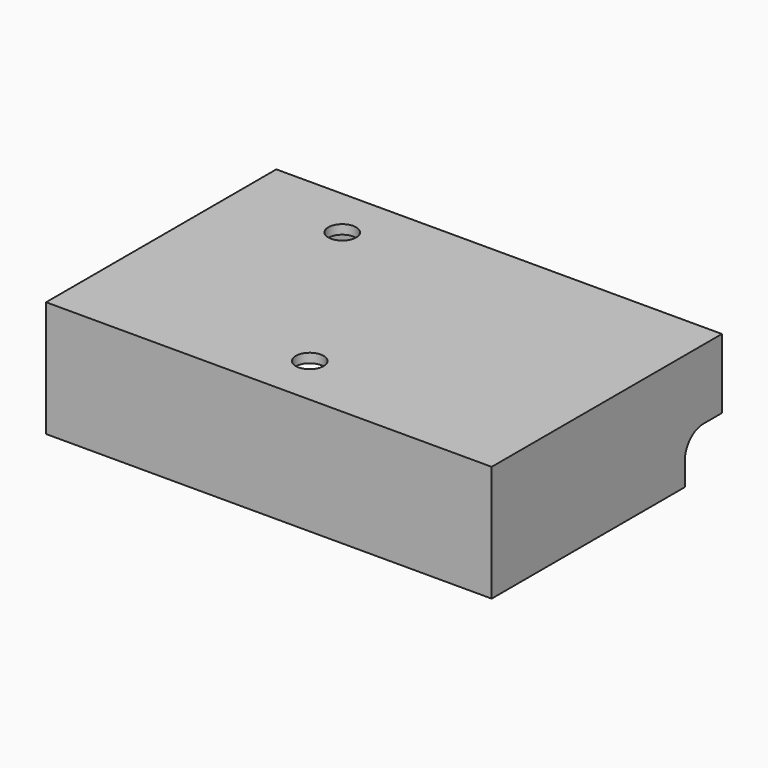
from build123d import *

# Parameters (mm, degrees)
SKETCH004_W          = 96
SKETCH004_H          = 62
PAD002_DEPTH         = 25
SKETCH005_W          = 90.1
SKETCH005_H          = 56.2
POCKET002_DEPTH      = 23
SKETCH006_W          = 7
SKETCH006_H          = 10
PAD003_DEPTH         = 14.5
SKETCH007_R          = 2.3
POCKET003_DEPTH      = 30.001
POCKET003_DEPTH_BACK = 0.001
SKETCH008_W          = 10
SKETCH008_H          = 10
POCKET004_DEPTH      = 10
FILLET001_R          = 5
POCKET005_DEPTH      = 8
FILLET_R             = 4
SKETCH010_R          = 3
POCKET006_DEPTH      = 5


with BuildPart() as part:
    # Sketch004 (on XY_Plane003 of Origin006) → Pad002 (new body)
    with BuildSketch(Plane.XY):
        Rectangle(SKETCH004_W, SKETCH004_H)
    extrude(amount=PAD002_DEPTH)

    # Sketch005 (on Face5 of Pad002) → Pocket002 (cut)
    with BuildSketch(Plane(origin=(0, 0, 0), x_dir=(1, 0, 0), z_dir=(0, 0, -1))):
        Rectangle(SKETCH005_W, SKETCH005_H)
    extrude(amount=-POCKET002_DEPTH, mode=Mode.SUBTRACT)

    # Sketch006 (on Face2 of Pocket002) → Pad003 (join)
    with BuildSketch(Plane(origin=(0, 31, 0), x_dir=(-1, 0, 0), z_dir=(0, 1, 0))):
        with Locations((-27.5, 0)):
            Rectangle(SKETCH006_W, SKETCH006_H)
        with Locations((27.5, 0)):
            Rectangle(SKETCH006_W, SKETCH006_H)
    extrude(amount=PAD003_DEPTH)

    # Sketch007 (on Face21 of Pad003) → Pocket003 (cut, two sides)
    with BuildSketch(Plane(origin=(0, 0, -5), x_dir=(1, 0, 0), z_dir=(0, 0, -1))) as pocket003_sk:
        with Locations((-27.5, -38.2)):
            Circle(SKETCH007_R)
        with Locations((27.5, -38.2)):
            Circle(SKETCH007_R)
    extrude(amount=-POCKET003_DEPTH, mode=Mode.SUBTRACT)
    extrude(pocket003_sk.sketch, amount=POCKET003_DEPTH_BACK, mode=Mode.SUBTRACT)

    # Sketch008 → Pocket004 (cut)
    with BuildSketch(Plane(origin=(0, 31, 0), x_dir=(-1, 0, 0), z_dir=(0, 1, 0))):
        with Locations((-43, 5)):
            Rectangle(SKETCH008_W, SKETCH008_H)
    extrude(amount=-POCKET004_DEPTH, mode=Mode.SUBTRACT)

    # Fillet001
    fillet001_edges = [part.edges().sort_by_distance(p)[0] for p in [
        (46.525, 21, 10),
        (38, 29.55, 10),
    ]]
    fillet(fillet001_edges, radius=FILLET001_R)

    # Sketch009 (on Face7 of Pocket004) → Pocket005 (cut)
    with BuildSketch(Plane.XY.offset(5)):
        with BuildLine():
            ThreePointArc((-32.5, 39.800781), (-27.5, 32.95), (-22.5, 39.800781))
            Line((-22.5, 39.800781), (22.5, 39.800781))
            ThreePointArc((22.5, 39.800781), (27.5, 32.95), (32.5, 39.800781))
            Line((32.5, 39.800781), (32.5, 46.800781))
            Line((32.5, 46.800781), (-32.5, 46.800781))
            Line((-32.5, 46.800781), (-32.5, 39.800781))
        make_face()
    extrude(amount=-POCKET005_DEPTH, mode=Mode.SUBTRACT)

    # Fillet
    fillet_edges = [part.edges().sort_by_distance(p)[0] for p in [
        (31, 45.5, -4),
        (-31, 45.5, -4),
    ]]
    fillet(fillet_edges, radius=FILLET_R)

    # Sketch010 (on Face17 of Fillet) → Pocket006 (cut)
    with BuildSketch(Plane.XY.offset(25)):
        with Locations((0, -20)):
            Circle(SKETCH010_R)
        with Locations((-25, 20)):
            Circle(SKETCH010_R)
    extrude(amount=-POCKET006_DEPTH, mode=Mode.SUBTRACT)


with BuildPart() as part_1:
    # Body002 placement: moved
    add(part.part.moved(Location((0, 0, 10))))


solid = part_1.part
